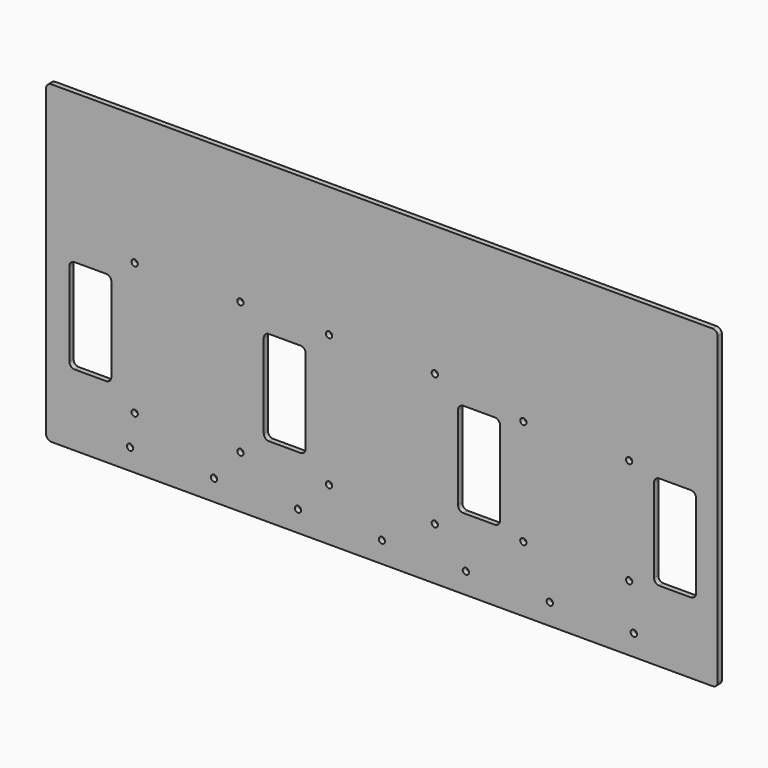
from build123d import *

# Parameters (mm, degrees)
F0_R     = 1.89865
F1_DEPTH = 3.175


with BuildPart() as f1:
    # F0 (on Front) → F1 (new body)
    with BuildSketch(Plane.XZ):
        with BuildLine():
            Line((200.025, 95.25), (-200.025, 95.25))
            ThreePointArc((-200.025, 95.25), (-202.2700640303, 94.3200640303), (-203.2, 92.075))
            Line((-203.2, 92.075), (-203.2, -92.075))
            ThreePointArc((-203.2, -92.075), (-202.2700640303, -94.3200640303), (-200.025, -95.25))
            Line((-200.025, -95.25), (200.025, -95.25))
            ThreePointArc((200.025, -95.25), (202.2700640303, -94.3200640303), (203.2, -92.075))
            Line((203.2, -92.075), (203.2, 92.075))
            ThreePointArc((203.2, 92.075), (202.2700640303, 94.3200640303), (200.025, 95.25))
        make_face()
        with Locations((-152.4, -82.55)):
            Circle(F0_R, mode=Mode.SUBTRACT)
        with Locations((-101.6, -82.55)):
            Circle(F0_R, mode=Mode.SUBTRACT)
        with Locations((-149.6, -63.5)):
            Circle(F0_R, mode=Mode.SUBTRACT)
        with Locations((-50.8, -82.55)):
            Circle(F0_R, mode=Mode.SUBTRACT)
        with Locations((0, -82.55)):
            Circle(F0_R, mode=Mode.SUBTRACT)
        with Locations((-85.6, -63.5)):
            Circle(F0_R, mode=Mode.SUBTRACT)
        with Locations((-32, -63.5)):
            Circle(F0_R, mode=Mode.SUBTRACT)
        with BuildLine():
            ThreePointArc((-189.1, 1.9), (-188.1700640303, 4.1450640303), (-185.925, 5.075))
            Line((-185.925, 5.075), (-166.875, 5.075))
            ThreePointArc((-166.875, 5.075), (-164.6299359697, 4.1450640303), (-163.7, 1.9))
            Line((-163.7, 1.9), (-163.7, -48.9))
            ThreePointArc((-163.7, -48.9), (-164.6299359697, -51.1450640303), (-166.875, -52.075))
            Line((-166.875, -52.075), (-185.925, -52.075))
            ThreePointArc((-185.925, -52.075), (-188.1700640303, -51.1450640303), (-189.1, -48.9))
            Line((-189.1, -48.9), (-189.1, 1.9))
        make_face(mode=Mode.SUBTRACT)
        with BuildLine():
            ThreePointArc((-71.5, 1.9), (-70.5700640303, 4.1450640303), (-68.325, 5.075))
            Line((-68.325, 5.075), (-49.275, 5.075))
            ThreePointArc((-49.275, 5.075), (-47.0299359697, 4.1450640303), (-46.1, 1.9))
            Line((-46.1, 1.9), (-46.1, -48.9))
            ThreePointArc((-46.1, -48.9), (-47.0299359697, -51.1450640303), (-49.275, -52.075))
            Line((-49.275, -52.075), (-68.325, -52.075))
            ThreePointArc((-68.325, -52.075), (-70.5700640303, -51.1450640303), (-71.5, -48.9))
            Line((-71.5, -48.9), (-71.5, 1.9))
        make_face(mode=Mode.SUBTRACT)
        with Locations((50.8, -82.55)):
            Circle(F0_R, mode=Mode.SUBTRACT)
        with Locations((101.6, -82.55)):
            Circle(F0_R, mode=Mode.SUBTRACT)
        with BuildLine():
            ThreePointArc((33.89865, -63.5), (32, -65.39865), (30.10135, -63.5))
            ThreePointArc((30.10135, -63.5), (32, -61.60135), (33.89865, -63.5))
        make_face(mode=Mode.SUBTRACT)
        with Locations((85.6, -55.5)):
            Circle(F0_R, mode=Mode.SUBTRACT)
        with Locations((152.4, -82.55)):
            Circle(F0_R, mode=Mode.SUBTRACT)
        with Locations((149.6, -55.5)):
            Circle(F0_R, mode=Mode.SUBTRACT)
        with BuildLine():
            ThreePointArc((46.1, 1.9), (47.0299359697, 4.1450640303), (49.275, 5.075))
            Line((49.275, 5.075), (68.325, 5.075))
            ThreePointArc((68.325, 5.075), (70.5700640303, 4.1450640303), (71.5, 1.9))
            Line((71.5, 1.9), (71.5, -48.9))
            ThreePointArc((71.5, -48.9), (70.5700640303, -51.1450640303), (68.325, -52.075))
            Line((68.325, -52.075), (49.275, -52.075))
            ThreePointArc((49.275, -52.075), (47.0299359697, -51.1450640303), (46.1, -48.9))
            Line((46.1, -48.9), (46.1, 1.9))
        make_face(mode=Mode.SUBTRACT)
        with BuildLine():
            ThreePointArc((164.6916105596, 1.7320367783), (165.6215465293, 3.9771008086), (167.8666105596, 4.9070367783))
            Line((167.8666105596, 4.9070367783), (186.9166105596, 4.9070367783))
            ThreePointArc((186.9166105596, 4.9070367783), (189.1616745898, 3.9771008086), (190.0916105596, 1.7320367783))
            Line((190.0916105596, 1.7320367783), (190.0916105596, -49.0679632217))
            ThreePointArc((190.0916105596, -49.0679632217), (189.1616745898, -51.3130272519), (186.9166105596, -52.2429632217))
            Line((186.9166105596, -52.2429632217), (167.8666105596, -52.2429632217))
            ThreePointArc((167.8666105596, -52.2429632217), (165.6215465293, -51.3130272519), (164.6916105596, -49.0679632217))
            Line((164.6916105596, -49.0679632217), (164.6916105596, 1.7320367783))
        make_face(mode=Mode.SUBTRACT)
        with Locations((-149.6, 16.5)):
            Circle(F0_R, mode=Mode.SUBTRACT)
        with Locations((-85.6, 16.5)):
            Circle(F0_R, mode=Mode.SUBTRACT)
        with Locations((-32, 16.5)):
            Circle(F0_R, mode=Mode.SUBTRACT)
        with Locations((32, 16.5)):
            Circle(F0_R, mode=Mode.SUBTRACT)
        with Locations((85.6, 8.5)):
            Circle(F0_R, mode=Mode.SUBTRACT)
        with Locations((149.6, 8.5)):
            Circle(F0_R, mode=Mode.SUBTRACT)
    extrude(amount=F1_DEPTH)


solid = f1.part
